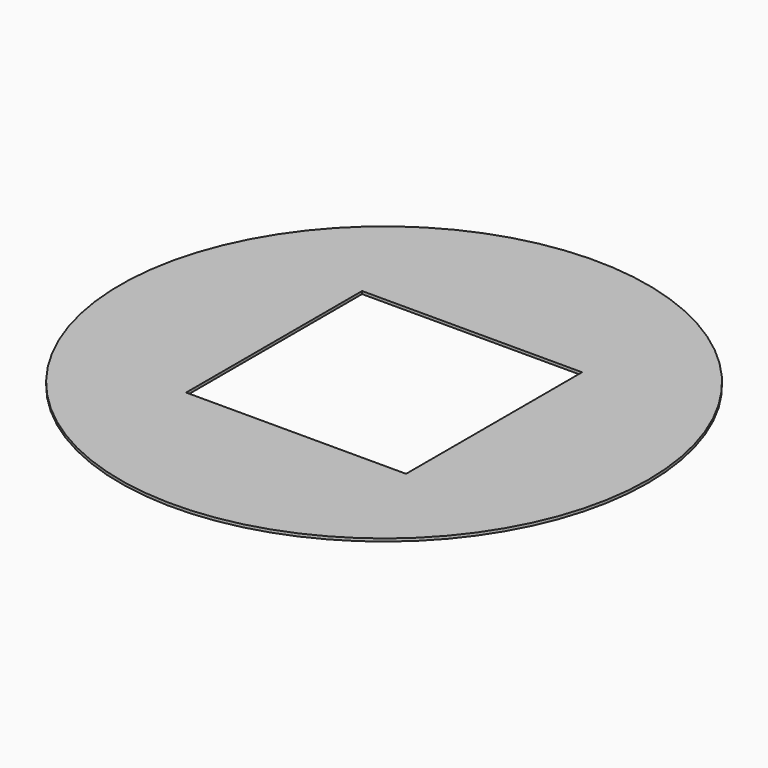
from build123d import *

# Parameters (mm, degrees)
F0_R     = 12
F1_DEPTH = 0.125
F2_W     = 10
F2_H     = 10
F3_DEPTH = 0.126


with BuildPart() as f1:
    # F0 (on Top) → F1 (new body)
    with BuildSketch(Plane.XY):
        Circle(F0_R)
    extrude(amount=-F1_DEPTH)

    # F2 (on face) → F3 (cut, through all)
    with BuildSketch(Plane.XY):
        Rectangle(F2_W, F2_H)
    extrude(amount=-F3_DEPTH, mode=Mode.SUBTRACT)


solid = f1.part
